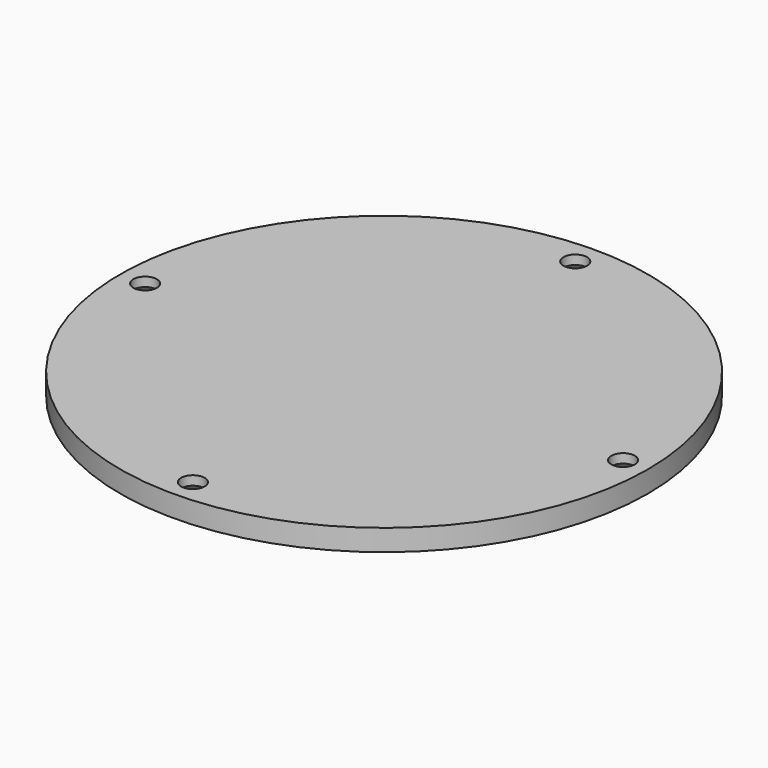
from build123d import *

# Parameters (mm, degrees)
F0_R           = 37
F1_DEPTH       = 3
F3_D           = 3.3
F3_CSINK_D     = 6.72
F3_CSINK_ANGLE = 90


with BuildPart() as f1:
    # F0 (on Top) → F1 (new body)
    with BuildSketch(Plane.XY):
        Circle(F0_R)
    extrude(amount=F1_DEPTH)

    # F3 (through all)
    with Locations(Plane(origin=(0, 0, 0), x_dir=(1, 0, 0), z_dir=(0, 0, -1))):
        with Locations((-33.5, 0), (0, 33.5), (33.5, 0), (0, -33.5)):
            CounterSinkHole(F3_D / 2, F3_CSINK_D / 2, counter_sink_angle=F3_CSINK_ANGLE)


solid = f1.part
